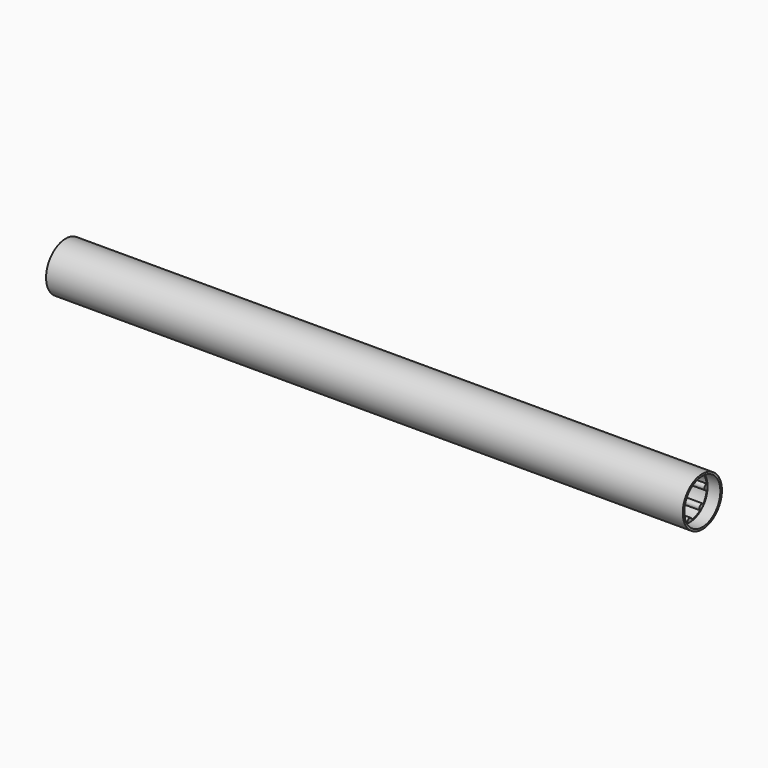
from build123d import *

# Parameters (mm, degrees)
F0_R     = 50
F1_DEPTH = 650
F2_R     = 46
F3_DEPTH = 26


with BuildPart() as f1:
    # F0 (on Right) → F1 (new body)
    with BuildSketch(Plane.YZ):
        Circle(F0_R)
        with BuildLine():
            ThreePointArc((26.59066, -35.056195), (16.838071, -40.650699), (5.986037, -43.590909))
            ThreePointArc((5.986037, -43.590909), (0, -38), (-5.986037, -43.590909))
            ThreePointArc((-5.986037, -43.590909), (-16.838071, -40.650699), (-26.59066, -35.056195))
            ThreePointArc((-26.59066, -35.056195), (-26.870058, -26.870058), (-35.056195, -26.59066))
            ThreePointArc((-35.056195, -26.59066), (-40.650699, -16.838071), (-43.590909, -5.986037))
            ThreePointArc((-43.590909, -5.986037), (-38, 0), (-43.590909, 5.986037))
            ThreePointArc((-43.590909, 5.986037), (-40.650699, 16.838071), (-35.056195, 26.59066))
            ThreePointArc((-35.056195, 26.59066), (-26.870058, 26.870058), (-26.59066, 35.056195))
            ThreePointArc((-26.59066, 35.056195), (-16.838071, 40.650699), (-5.986037, 43.590909))
            ThreePointArc((-5.986037, 43.590909), (0, 38), (5.986037, 43.590909))
            ThreePointArc((5.986037, 43.590909), (16.838071, 40.650699), (26.59066, 35.056195))
            ThreePointArc((26.59066, 35.056195), (26.870058, 26.870058), (35.056195, 26.59066))
            ThreePointArc((35.056195, 26.59066), (40.650699, 16.838071), (43.590909, 5.986037))
            ThreePointArc((43.590909, 5.986037), (38, 0), (43.590909, -5.986037))
            ThreePointArc((43.590909, -5.986037), (40.650699, -16.838071), (35.056195, -26.59066))
            ThreePointArc((35.056195, -26.59066), (26.870058, -26.870058), (26.59066, -35.056195))
        make_face(mode=Mode.SUBTRACT)
    extrude(amount=-F1_DEPTH)

    # F2 (on Right) → F3 (cut)
    with BuildSketch(Plane.YZ):
        Circle(F2_R)
    extrude(amount=-F3_DEPTH, mode=Mode.SUBTRACT)

    # F4: F1 across face


with BuildPart() as f1_1:
    add(f1.part)
    add(f1.part.mirror(Plane(origin=(-650, 0, 0), x_dir=(0, 1, 0), z_dir=(-1, 0, 0))))


solid = f1_1.part
